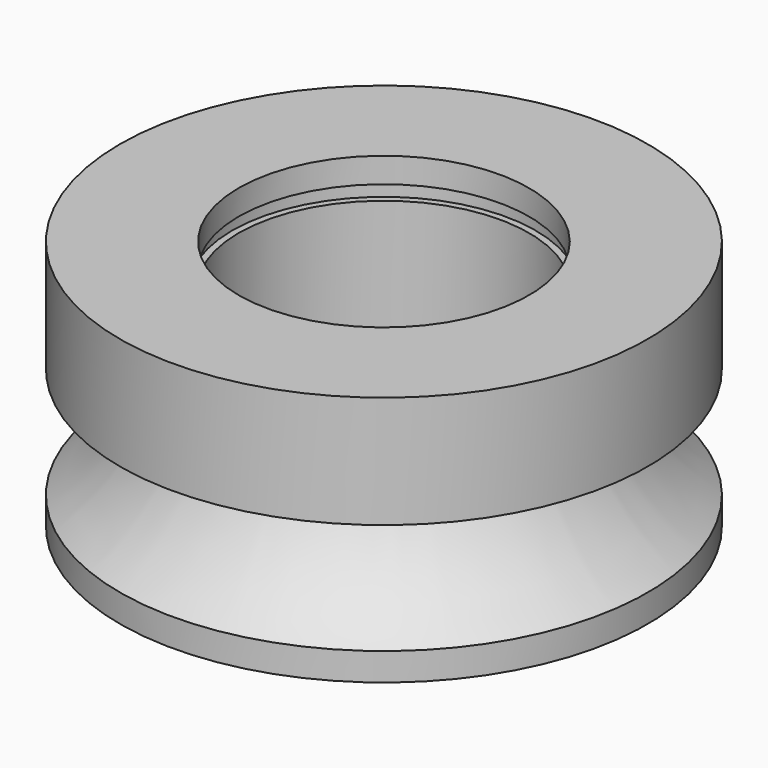
from build123d import *


with BuildPart() as f1:
    # F0 (on Front) → F1 (revolve)
    with BuildSketch(Plane.XZ):
        with BuildLine():
            Line((-31, -10.48884), (-40, -10.48884))
            Line((-40, -10.48884), (-40, -18.98884))
            Line((-40, -18.98884), (-33.65, -18.98884))
            ThreePointArc((-33.65, -18.98884), (-36.131149, -23.713358), (-40, -27.38884))
            Line((-40, -27.38884), (-40, -29.48884))
            Line((-40, -29.48884), (-29, -29.48884))
            Line((-29, -29.48884), (-29, -27.38884))
            Line((-29, -27.38884), (-31, -27.38884))
            Line((-31, -27.38884), (-31, -13.48884))
            Line((-31, -13.48884), (-31.5, -13.48884))
            Line((-31.5, -13.48884), (-31.5, -12.38884))
            Line((-31.5, -12.38884), (-31, -12.38884))
            Line((-31, -12.38884), (-31, -10.48884))
        make_face()
    revolve(axis=Axis((-20, 0, -19.98884), (0, 0, -1)))


solid = f1.part
